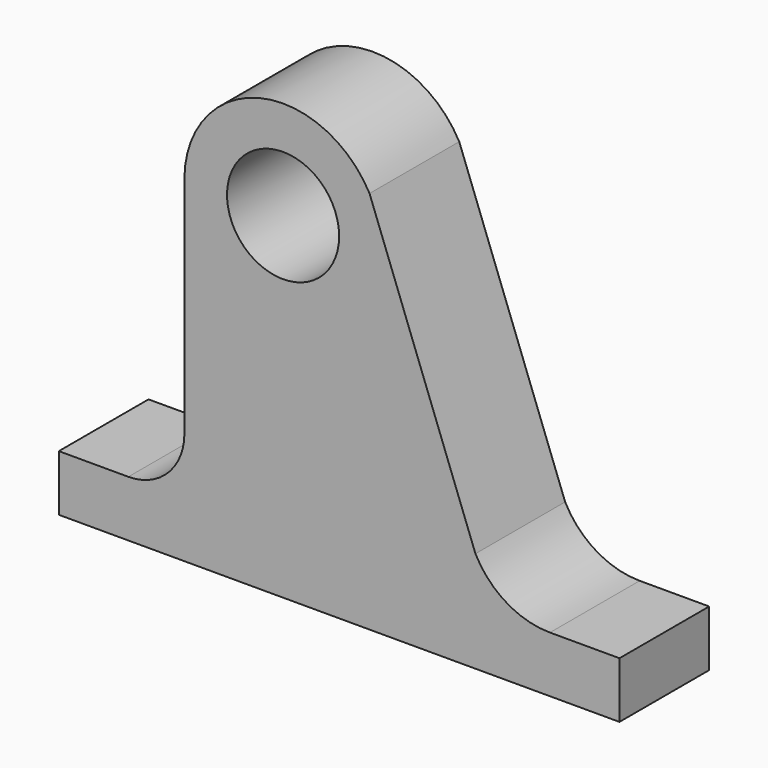
from build123d import *

# Parameters (mm, degrees)
F0_R     = 12.7
F1_DEPTH = 25.4


with BuildPart() as f1:
    # F0 (on Front) → F1 (new body)
    with BuildSketch(Plane.XZ):
        with BuildLine():
            Line((43.570003, -53.271691), (19.583251, 10.775351))
            ThreePointArc((19.583251, 10.775351), (-5.562692, 21.64875), (-22.352, 0))
            Line((-22.352, 0), (-22.352, -50.8))
            ThreePointArc((-22.352, -50.8), (-26.071744, -59.780256), (-35.052, -63.5))
            Line((-35.052, -63.5), (-50.8, -63.5))
            Line((-50.8, -63.5), (-50.8, -76.2))
            Line((-50.8, -76.2), (0, -76.2))
            Line((0, -76.2), (76.2, -76.2))
            Line((76.2, -76.2), (76.2, -63.49915))
            Line((76.2, -63.49915), (60.452, -63.49915))
            ThreePointArc((60.452, -63.49915), (50.583093, -60.742403), (43.570003, -53.271691))
        make_face()
        Circle(F0_R, mode=Mode.SUBTRACT)
    extrude(amount=F1_DEPTH)


solid = f1.part
